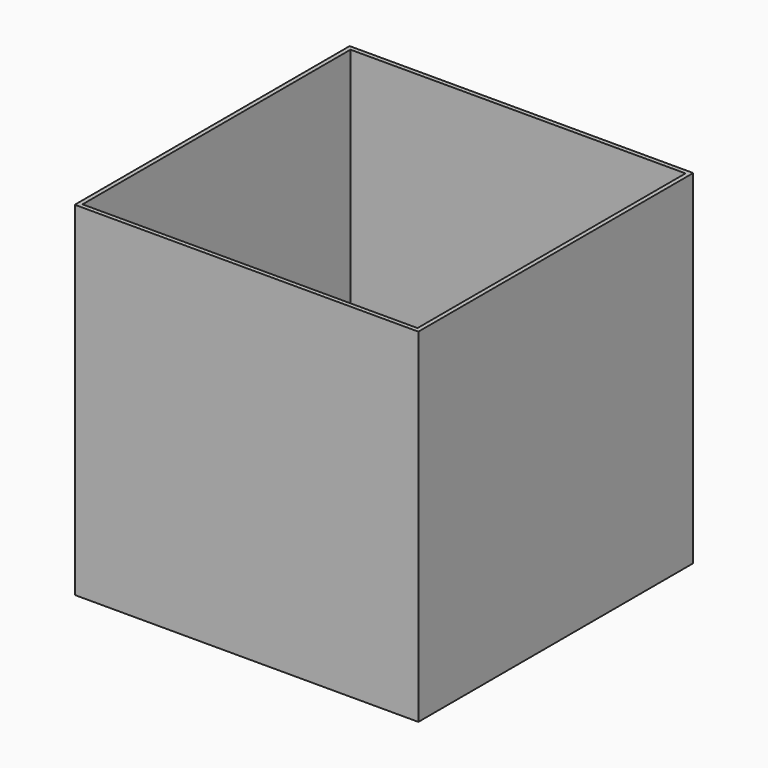
from build123d import *

# Parameters (mm, degrees)
F0_W     = 127
F0_H     = 127
F1_DEPTH = 63.5
F2_W     = 123.825
F2_H     = 123.825
F3_DEPTH = 123.825


with BuildPart() as f1:
    # F0 (on Front) → F1 (new body, symmetric)
    with BuildSketch(Plane.XZ):
        Rectangle(F0_W, F0_H)
    extrude(amount=F1_DEPTH, both=True)

    # F2 (on face) → F3 (cut)
    with BuildSketch(Plane.XY.offset(63.5)):
        Rectangle(F2_W, F2_H)
    extrude(amount=-F3_DEPTH, mode=Mode.SUBTRACT)


solid = f1.part
